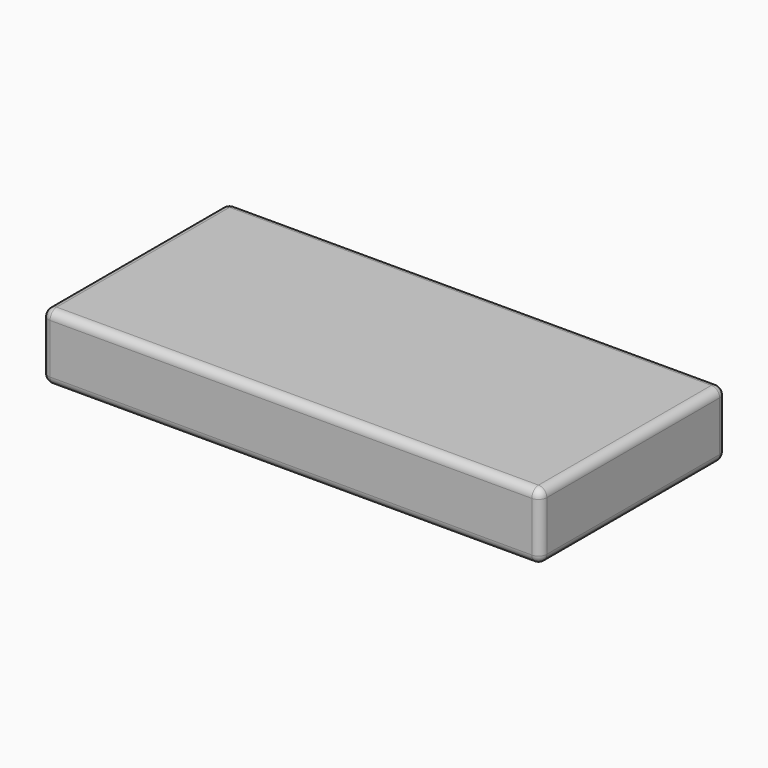
from build123d import *

# Parameters (mm, degrees)
CYLINDER007_R          = 2
CYLINDER007_DEPTH      = 5
CYLINDER007_ROLL_ANGLE = 15
CYLINDER004_R          = 2
CYLINDER004_DEPTH      = 5
CYLINDER004_ROLL_ANGLE = -15
CYLINDER006_R          = 2
CYLINDER006_DEPTH      = 5
CYLINDER006_ROLL_ANGLE = -15
BOX003_W               = 60
BOX003_H               = 28
BOX003_DEPTH           = 8
FILLET002_R            = 1
CYLINDER005_R          = 2
CYLINDER005_DEPTH      = 5
CYLINDER005_ROLL_ANGLE = 15


with BuildPart() as cylinder009:
    # Cylinder007 → Cylinder007 (new body)
    with BuildSketch(Plane.XY):
        Circle(CYLINDER007_R)
    extrude(amount=CYLINDER007_DEPTH)


with BuildPart() as cylinder009_1:
    # Cylinder007 roll: moved
    add(cylinder009.part.rotate(Axis((0, 0, 0), (1, 0, 0)), CYLINDER007_ROLL_ANGLE))


with BuildPart() as cylinder009_2:
    # Cylinder007 placement: moved
    add(cylinder009_1.part.moved(Location((48, 42.5, 5))))


with BuildPart() as cylinder:
    # Cylinder004 → Cylinder004 (new body)
    with BuildSketch(Plane.XY):
        Circle(CYLINDER004_R)
    extrude(amount=CYLINDER004_DEPTH)


with BuildPart() as cylinder_1:
    # Cylinder004 roll: moved
    add(cylinder.part.rotate(Axis((0, 0, 0), (1, 0, 0)), CYLINDER004_ROLL_ANGLE))


with BuildPart() as cylinder_2:
    # Cylinder004 placement: moved
    add(cylinder_1.part.moved(Location((48, 53.5, 5))))


with BuildPart() as cylinder008:
    # Cylinder006 → Cylinder006 (new body)
    with BuildSketch(Plane.XY):
        Circle(CYLINDER006_R)
    extrude(amount=CYLINDER006_DEPTH)


with BuildPart() as cylinder008_1:
    # Cylinder006 roll: moved
    add(cylinder008.part.rotate(Axis((0, 0, 0), (1, 0, 0)), CYLINDER006_ROLL_ANGLE))


with BuildPart() as cylinder008_2:
    # Cylinder006 placement: moved
    add(cylinder008_1.part.moved(Location((16, 53.5, 5))))


with BuildPart() as obj1:
    # Box003 → Box003 (new body)
    with BuildSketch(Plane.XY.offset(29)):
        with Locations((30, 14)):
            Rectangle(BOX003_W, BOX003_H)
    extrude(amount=BOX003_DEPTH)

    # Fillet002
    fillet002_edges = [obj1.edges().sort_by_distance(p)[0] for p in [
        (0, 0, 33),
        (0, 14, 37),
        (0, 28, 33),
        (0, 14, 29),
        (60, 0, 33),
        (60, 14, 37),
        (60, 28, 33),
        (60, 14, 29),
        (30, 0, 29),
        (30, 0, 37),
        (30, 28, 29),
        (30, 28, 37),
    ]]
    fillet(fillet002_edges, radius=FILLET002_R)


with BuildPart() as obj1_1:
    # Fillet002 placement: moved
    add(obj1.part.moved(Location((2, 34, -21))))


with BuildPart() as obj2:
    # Cylinder005 → Cylinder005 (new body)
    with BuildSketch(Plane.XY):
        Circle(CYLINDER005_R)
    extrude(amount=CYLINDER005_DEPTH)


with BuildPart() as obj2_1:
    # Cylinder005 roll: moved
    add(obj2.part.rotate(Axis((0, 0, 0), (1, 0, 0)), CYLINDER005_ROLL_ANGLE))


with BuildPart() as obj2_2:
    # Cylinder005 placement: moved
    add(obj2_1.part.moved(Location((16, 42.5, 5))))

    # Fusion003: union Cylinder009, Cylinder, Cylinder008, obj1
    add(cylinder009_2.part)
    add(cylinder_2.part)
    add(cylinder008_2.part)
    add(obj1_1.part)


solid = obj2_2.part
